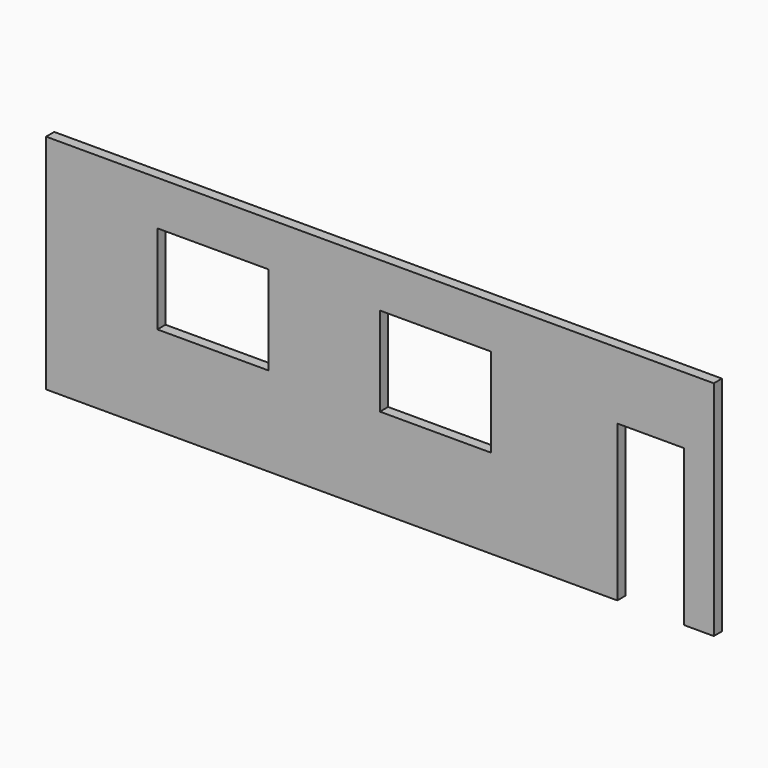
from build123d import *

# Parameters (mm, degrees)
F0_W     = 9144
F0_H     = 3048
F1_DEPTH = 139.7
F2_W     = 1524
F2_H     = 1219.2
F3_DEPTH = 139.701
F4_W     = 914.4
F4_H     = 2133.6
F5_DEPTH = 139.701


with BuildPart() as f1:
    # F0 (on Front) → F1 (new body)
    with BuildSketch(Plane.XZ):
        with Locations((4572, 1524)):
            Rectangle(F0_W, F0_H)
    extrude(amount=-F1_DEPTH)

    # F2 (on face) → F3 (cut, through all)
    with BuildSketch(Plane.XZ):
        with Locations((2286, 1828.8)):
            Rectangle(F2_W, F2_H)
        with Locations((5334, 1828.8)):
            Rectangle(F2_W, F2_H)
    extrude(amount=-F3_DEPTH, mode=Mode.SUBTRACT)

    # F4 (on face) → F5 (cut, through all)
    with BuildSketch(Plane.XZ):
        with Locations((8280.4, 1066.8)):
            Rectangle(F4_W, F4_H)
    extrude(amount=-F5_DEPTH, mode=Mode.SUBTRACT)


solid = f1.part
